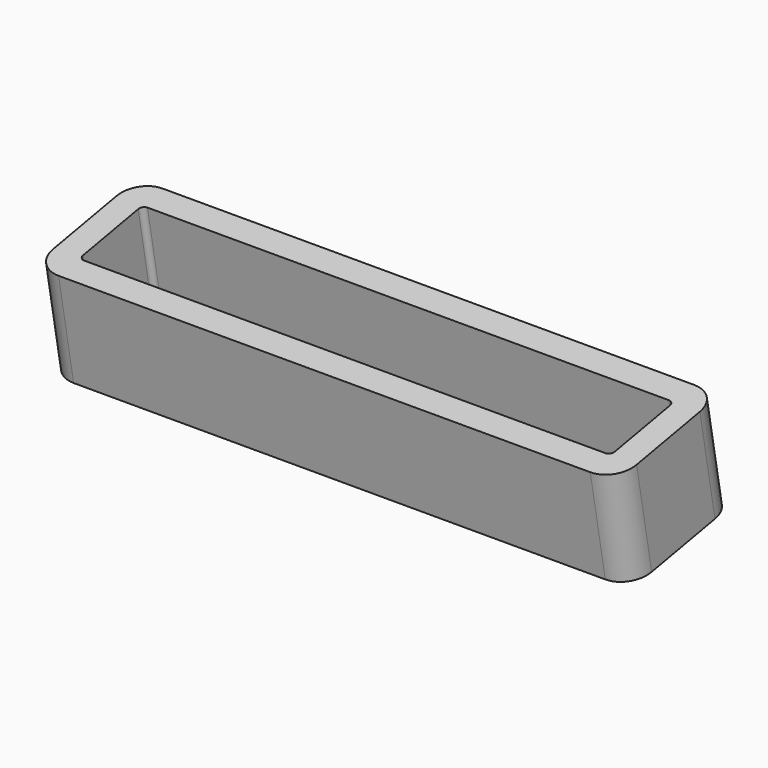
from build123d import *

# Parameters (mm, degrees)
PAD003_DEPTH = 11.25
POCKET_DEPTH = 5
FILLET001_R  = 1


with BuildPart() as part:
    # Sketch → Pad003 (new body, symmetric)
    with BuildSketch(Plane.YZ):
        Polygon((27.6094120011, -3.2625768801), (32.625282988, -2.3400595397), (33.348826, -6.274076), (28.3329550131, -7.1965933403), align=None)
    extrude(amount=PAD003_DEPTH, both=True)

    # Sketch032 (on Face1 of Pad003) → Pocket (cut)
    with BuildSketch(Plane(origin=(0, 1.4837890217, -8.0675928562), x_dir=(0, -0.9835041151, -0.180885753), z_dir=(0, -0.180885753, 0.9835041151))):
        with BuildLine():
            Line((-30.463816642, 10.25), (-27.763816642, 10.25))
            ThreePointArc((-27.563816642, 10.05), (-27.6223952858, 10.1914213562), (-27.763816642, 10.25))
            Line((-27.563816642, 10.05), (-27.563816642, -10.05))
            ThreePointArc((-27.763816642, -10.25), (-27.6223952858, -10.1914213562), (-27.563816642, -10.05))
            Line((-27.763816642, -10.25), (-30.463816642, -10.25))
            ThreePointArc((-30.663816642, -10.05), (-30.6052379983, -10.1914213562), (-30.463816642, -10.25))
            Line((-30.663816642, -10.05), (-30.663816642, 10.05))
            ThreePointArc((-30.463816642, 10.25), (-30.6052379983, 10.1914213562), (-30.663816642, 10.05))
        make_face()
    extrude(amount=-POCKET_DEPTH, mode=Mode.SUBTRACT)

    # Fillet001
    fillet001_edges = [part.edges().sort_by_distance(p)[0] for p in [
        (11.25, 32.987054, -4.307068),
        (11.25, 27.971184, -5.229585),
        (-11.25, 32.987054, -4.307068),
        (-11.25, 27.971184, -5.229585),
    ]]
    fillet(fillet001_edges, radius=FILLET001_R)


solid = part.part
